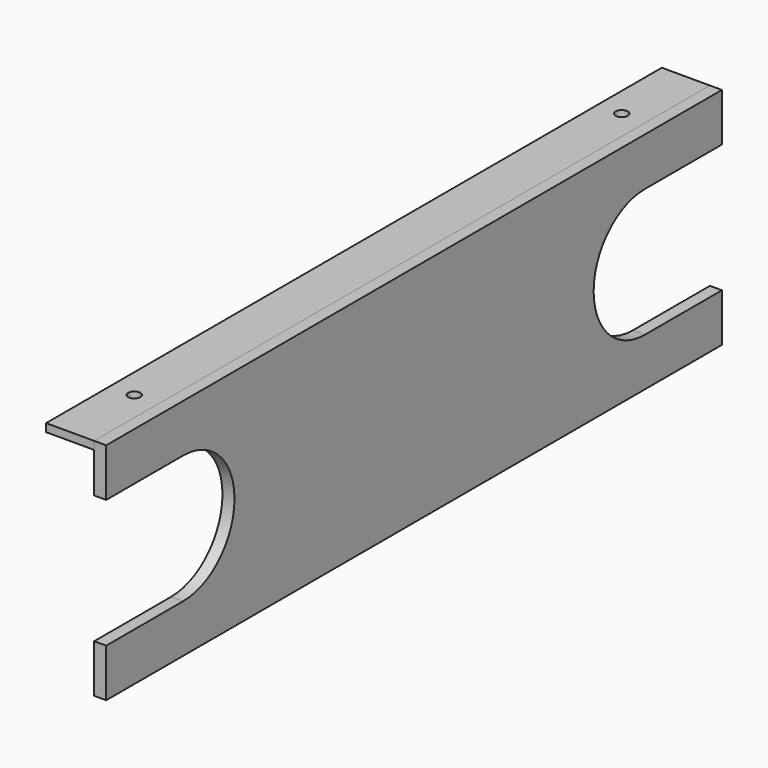
from build123d import *

# Parameters (mm, degrees)
F1_DEPTH = 19.05
F2_W     = 76.2
F2_H     = 1219.2
F2_R     = 9.525
F3_DEPTH = 12.7


with BuildPart() as f1:
    # F0 (on Right) → F1 (new body)
    with BuildSketch(Plane.YZ):
        with BuildLine():
            Line((609.6, 177.8), (-609.6, 177.8))
            Line((-609.6, 177.8), (-609.6, 101.6))
            Line((-609.6, 101.6), (-457.2, 101.6))
            ThreePointArc((-457.2, 101.6), (-355.6, 0), (-457.2, -101.6))
            Line((-457.2, -101.6), (-609.6, -101.6))
            Line((-609.6, -101.6), (-609.6, -177.8))
            Line((-609.6, -177.8), (609.6, -177.8))
            Line((609.6, -177.8), (609.6, -101.6))
            Line((609.6, -101.6), (457.2, -101.6))
            ThreePointArc((457.2, -101.6), (355.6, 0), (457.2, 101.6))
            Line((457.2, 101.6), (609.6, 101.6))
            Line((609.6, 101.6), (609.6, 177.8))
        make_face()
    extrude(amount=F1_DEPTH)


with BuildPart() as f3:
    # F2 (on face) → F3 (new body)
    with BuildSketch(Plane.XY.offset(177.8)):
        with Locations((-38.1, 0)):
            Rectangle(F2_W, F2_H)
        with Locations((-38.1, -482.6)):
            Circle(F2_R, mode=Mode.SUBTRACT)
        with Locations((-38.1, 482.6)):
            Circle(F2_R, mode=Mode.SUBTRACT)
    extrude(amount=-F3_DEPTH)


solid = Compound([f1.part, f3.part])
